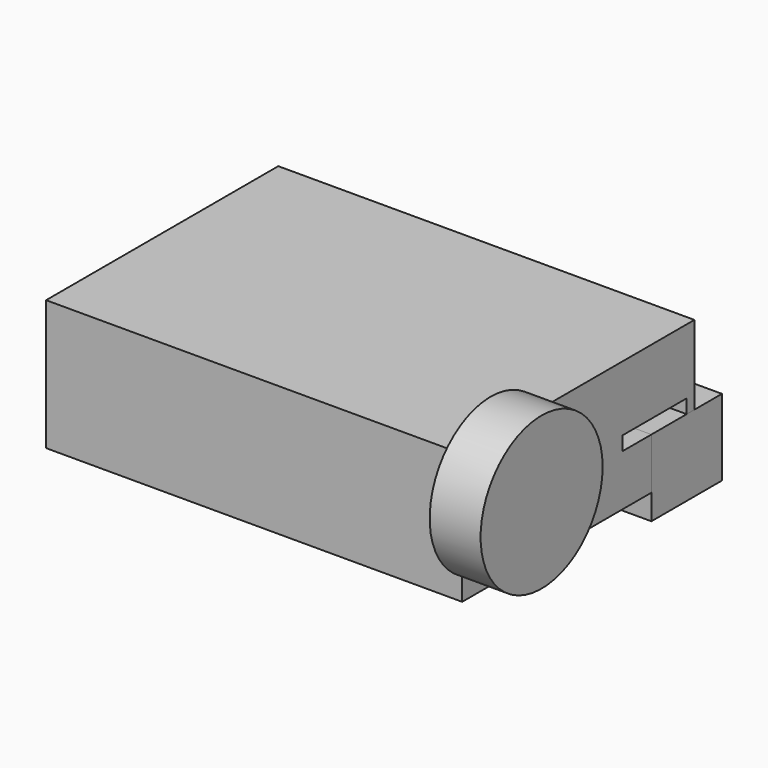
from build123d import *

# Parameters (mm, degrees)
F0_R     = 38.043722
F1_DEPTH = 25.4
F2_W     = 43.994091
F2_H     = 38.116284
F3_DEPTH = 96.468812
F5_DEPTH = 207.62481


with BuildPart() as f1:
    # F0 (on Right) → F1 (new body)
    with BuildSketch(Plane.YZ):
        with Locations((-23.952313, 0)):
            Circle(F0_R)
    extrude(amount=F1_DEPTH)


with BuildPart() as f3:
    # F2 (on Right) → F3 (new body)
    with BuildSketch(Plane.YZ):
        with Locations((98.253499, -38.4023)):
            Rectangle(F2_W, F2_H)
    extrude(amount=-F3_DEPTH)


with BuildPart() as f5:
    # F4 (on face) → F5 (new body)
    with BuildSketch(Plane.YZ):
        Polygon((-41.729145, -44.879589), (76.256454, -44.879589), (76.256454, -19.344158), (58.241405, -19.344158), (58.241405, -12.38269), (98.2535, -12.38269), (98.2535, -19.344158), (103.080533, -19.344158), (103.080533, 20.11421), (-41.729145, 20.11421), align=None)
    extrude(amount=-F5_DEPTH)


solid = Compound([f1.part, f3.part, f5.part])
